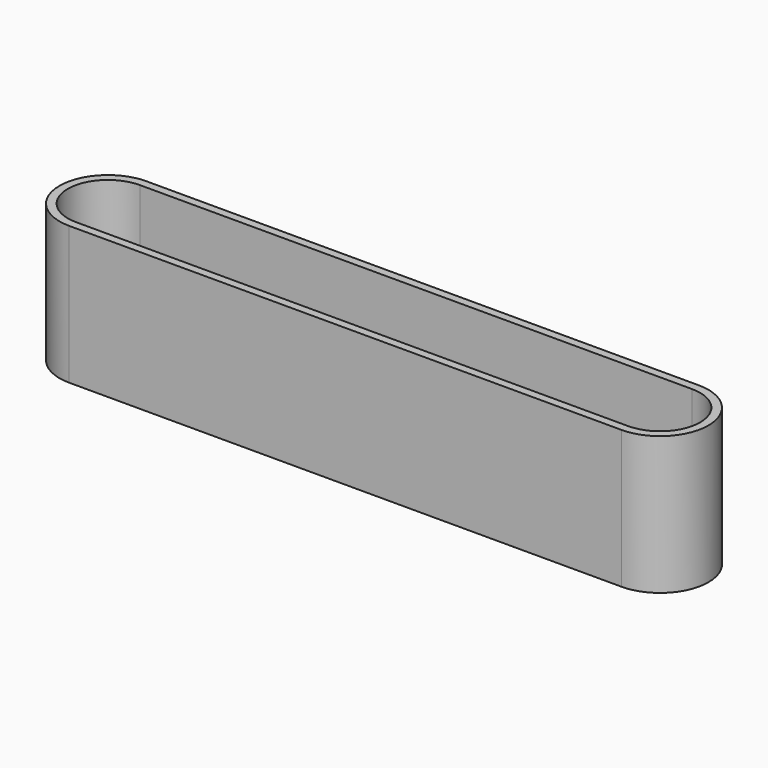
from build123d import *

# Parameters (mm, degrees)
F1_DEPTH = 25.4


with BuildPart() as f1:
    # F0 (on Top) → F1 (new body)
    with BuildSketch(Plane.XY):
        with BuildLine():
            Line((101.6, 8.89), (0, 8.89))
            ThreePointArc((0, 8.89), (-8.89, 0), (0, -8.89))
            Line((0, -8.89), (101.6, -8.89))
            ThreePointArc((101.6, -8.89), (110.49, 0), (101.6, 8.89))
        make_face()
        with BuildLine():
            Line((101.6, -7.366), (0, -7.366))
            ThreePointArc((0, -7.366), (-7.366, 0), (0, 7.366))
            Line((0, 7.366), (101.6, 7.366))
            ThreePointArc((101.6, 7.366), (108.966, 0), (101.6, -7.366))
        make_face(mode=Mode.SUBTRACT)
    extrude(amount=F1_DEPTH)


solid = f1.part
